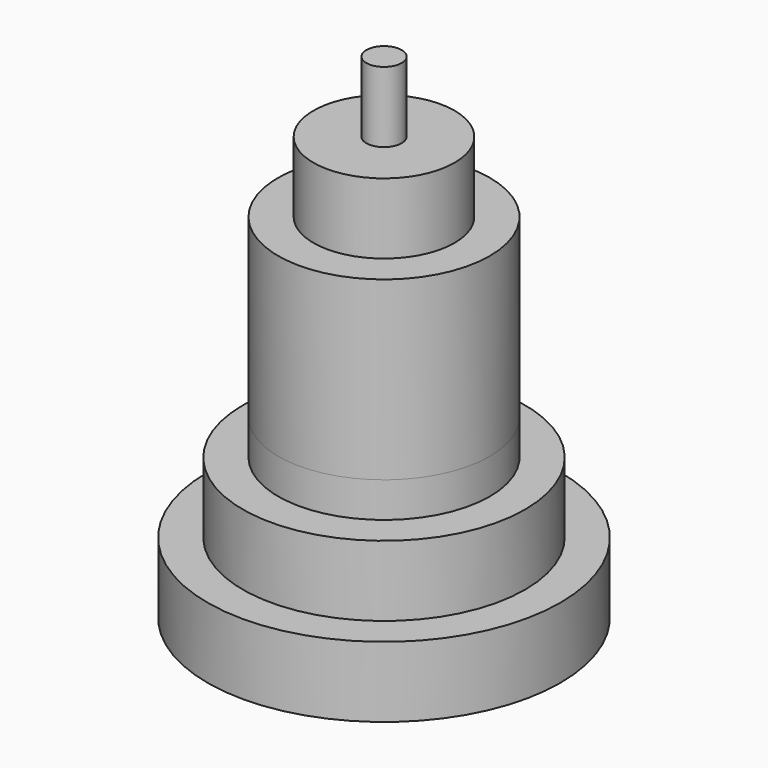
from build123d import *

# Parameters (mm, degrees)
F0_R     = 2.5
F1_DEPTH = 70
F0_R_2   = 25
F0_R_3   = 20
F2_DEPTH = 10
F0_R_4   = 15
F3_DEPTH = 20
F0_R_5   = 10
F4_DEPTH = 25
F6_R     = 15
F7_DEPTH = 25
F8_DEPTH = 60


with BuildPart() as f1:
    # F0 (on Top) → F1 (new body)
    with BuildSketch(Plane.XY):
        Circle(F0_R)
    extrude(amount=F1_DEPTH)


with BuildPart() as f2:
    # F0 (on Top) → F2 (new body)
    with BuildSketch(Plane.XY):
        Circle(F0_R_2)
        Circle(F0_R_3, mode=Mode.SUBTRACT)
    extrude(amount=F2_DEPTH)

    # F0 (on Top) → F3 (join)
    with BuildSketch(Plane.XY):
        Circle(F0_R_3)
        Circle(F0_R_4, mode=Mode.SUBTRACT)
    extrude(amount=F3_DEPTH)


with BuildPart() as f4:
    # F0 (on Top) → F4 (new body)
    with BuildSketch(Plane.XY):
        Circle(F0_R_4)
        Circle(F0_R_5, mode=Mode.SUBTRACT)
    extrude(amount=F4_DEPTH)


with BuildPart() as f7:
    # F6 (on offset) → F7 (new body)
    with BuildSketch(Plane.XY.offset(25)):
        Circle(F6_R)
    extrude(amount=F7_DEPTH)


with BuildPart() as f8:
    # F0 (on Top) → F8 (new body)
    with BuildSketch(Plane.XY):
        Circle(F0_R_5)
        Circle(F0_R, mode=Mode.SUBTRACT)
    extrude(amount=F8_DEPTH)


solid = Compound([f1.part, f2.part, f4.part, f7.part, f8.part])
